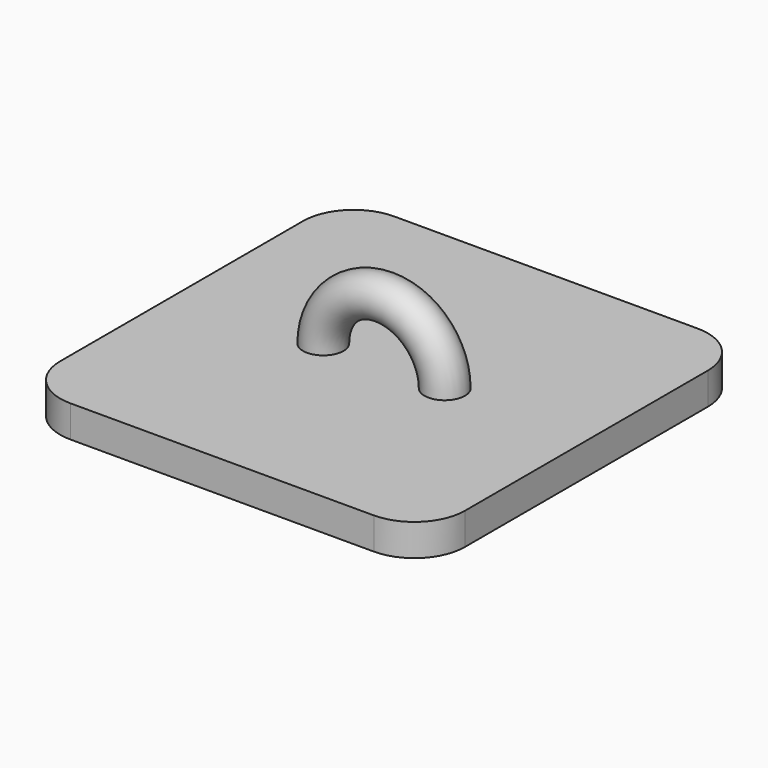
from build123d import *

# Parameters (mm, degrees)
F0_W     = 25.4
F0_H     = 25.4
F1_DEPTH = 2
F2_R     = 1.27
F3_ANGLE = 180
F4_R     = 3.175


with BuildPart() as f1:
    # F0 (on Top) → F1 (new body)
    with BuildSketch(Plane.XY):
        Rectangle(F0_W, F0_H)
    extrude(amount=F1_DEPTH)

    # F2 (on face) → F3 (revolve)
    with BuildSketch(Plane.XY.offset(2)):
        with Locations((3.81, 0)):
            Circle(F2_R)
    revolve(axis=Axis((0, 0, 2), (0, -1, 0)), revolution_arc=F3_ANGLE)

    # F4
    f4_edges = [f1.edges().sort_by_distance(p)[0] for p in [
        (12.7, -12.7, 1),
        (-12.7, -12.7, 1),
        (-12.7, 12.7, 1),
        (12.7, 12.7, 1),
    ]]
    fillet(f4_edges, radius=F4_R)


solid = f1.part
